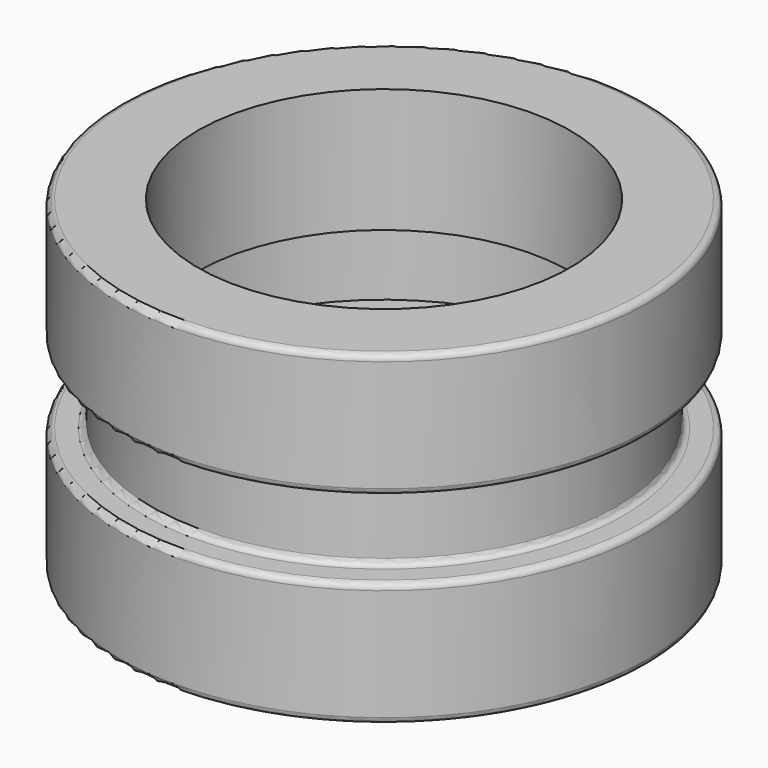
from build123d import *

# Parameters (mm, degrees)
F2_R = 5.08


with BuildPart() as f1:
    # F0 (on Front) → F1 (revolve)
    with BuildSketch(Plane.XZ):
        Polygon((-25.4, 0), (0, 0), (0, 101.6), (-63.5, 101.6), (-63.5, 0), (-38.1, 0), (-38.1, -63.5), (-63.5, -63.5), (-63.5, -165.1), (0, -165.1), (0, -63.5), (-25.4, -63.5), align=None)
    revolve(axis=Axis((152.4, 0, -19.5861668587), (0, 0, -1)))

    # F2
    f2_edges = [f1.edges().sort_by_distance(p)[0] for p in [
        (342.9, 0, 0),
        (342.9, 0, -63.5),
        (-38.1, 0, -31.75),
        (368.3, 0, 101.6),
        (368.3, 0, 0),
        (-63.5, 0, 50.8),
        (368.3, 0, -63.5),
        (368.3, 0, -165.1),
        (-63.5, 0, -114.3),
    ]]
    fillet(f2_edges, radius=F2_R)


solid = f1.part
